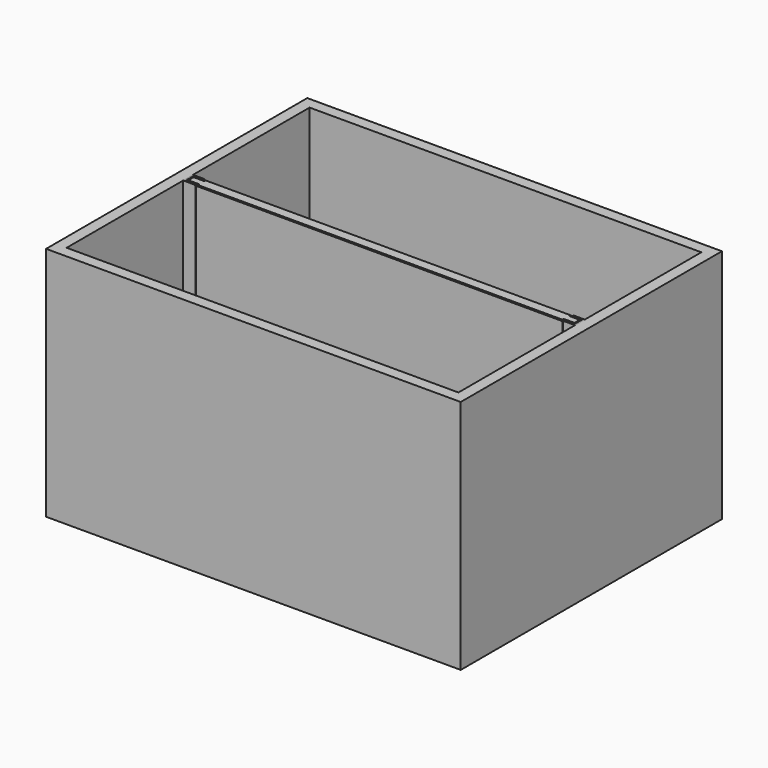
from build123d import *

# Parameters (mm, degrees)
F1_DEPTH       = 275
F2_R           = 2
F4_D           = 3.3
F4_CSINK_D     = 6.3
F4_CSINK_ANGLE = 90
F8_DEPTH       = 275
F9_SIZE        = 1
F6_W           = 508
F6_H           = 400
F6_W_2         = 480
F6_H_2         = 372
F10_DEPTH      = 275
F11_W          = 508
F11_H          = 400
F12_DEPTH      = 14


with BuildPart() as f1:
    # F0 (on Top) → F1 (new body)
    with BuildSketch(Plane.XY):
        Polygon((-240, 7.5), (-240, -7.5), (-225, -7.5), (-225, -5.5), (-238, -5.5), (-238, 5.5), (-225, 5.5), (-225, 7.5), align=None)
    extrude(amount=F1_DEPTH)

    # F2
    f2_edges = [f1.edges().sort_by_distance(p)[0] for p in [
        (-225, -6.5, 275),
        (-225, 6.5, 275),
    ]]
    fillet(f2_edges, radius=F2_R)

    # F4 (through all)
    with Locations(Plane.YZ.offset(-238)):
        with Locations((0, 215), (0, 60)):
            CounterSinkHole(F4_D / 2, F4_CSINK_D / 2, counter_sink_angle=F4_CSINK_ANGLE)


with BuildPart() as f5_1:
    # F5: instance of F1
    add(f1.part.mirror(Plane.YZ))


with BuildPart() as f8:
    # F7 (on face) → F8 (new body, through all)
    with BuildSketch(Plane.XY):
        Polygon((-237.5, -5), (-224.5, -5), (-224.5, -7), (224.5, -7), (224.5, -5), (237.5, -5), (237.5, 5), (224.5, 5), (224.5, 7), (-224.5, 7), (-224.5, 5), (-237.5, 5), align=None)
    extrude(amount=F8_DEPTH)

    # F9
    f9_edges = [f8.edges().sort_by_distance(p)[0] for p in [
        (0, -7, 275),
        (0, 7, 275),
        (-224.5, -6, 275),
        (-231, -5, 275),
        (-237.5, 0, 275),
        (-224.5, 6, 275),
        (-231, 5, 275),
        (224.5, 6, 275),
        (224.5, -6, 275),
        (231, -5, 275),
        (231, 5, 275),
        (237.5, 0, 275),
    ]]
    chamfer(f9_edges, length=F9_SIZE)


with BuildPart() as f10:
    # F6 (on Top) → F10 (new body, through all)
    with BuildSketch(Plane.XY):
        Rectangle(F6_W, F6_H)
        Rectangle(F6_W_2, F6_H_2, mode=Mode.SUBTRACT)
    extrude(amount=F10_DEPTH)

    # F11 (on face) → F12 (join)
    with BuildSketch(Plane(origin=(0, 0, 0), x_dir=(1, 0, 0), z_dir=(0, 0, -1))):
        Rectangle(F11_W, F11_H)
    extrude(amount=F12_DEPTH)


solid = Compound([f1.part, f5_1.part, f8.part, f10.part])
